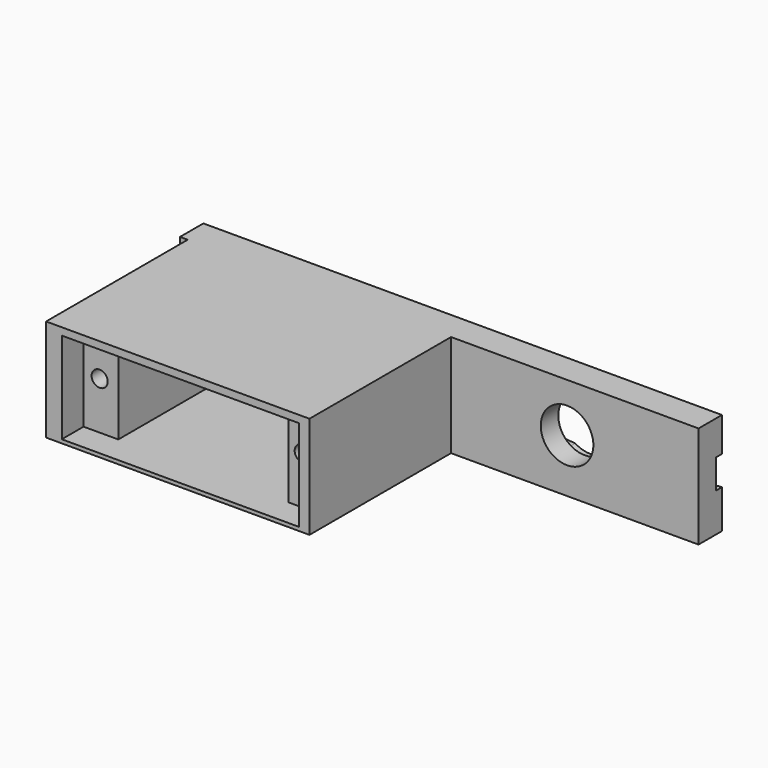
from build123d import *

# Parameters (mm, degrees)
CYLINDER_R                  = 1.1
CYLINDER_DEPTH              = 10
CYLINDER001_R               = 1.1
CYLINDER001_DEPTH           = 10
SKETCH002_W                 = 23.3
SKETCH002_H                 = 12.5
PAD002_DEPTH                = 19.5
SKETCH_W                    = 32.5
SKETCH_H                    = 12.5
PAD001_DEPTH                = 4.5
SKETCH001_W                 = 36.061928
SKETCH001_H                 = 25.639376
PAD_DEPTH                   = 14
CUT002_PLACEMENT_ANGLE      = 180
CYLINDER010_R               = 3.6
CYLINDER010_DEPTH           = 8
CYLINDER010_ROLL_ANGLE      = 89.941329
CYLINDER010_PITCH_ANGLE     = 3.606623
CYLINDER010_PLACEMENT_ANGLE = -0.059115
PAD013_DEPTH                = 3
CYLINDER006_R               = 5
CYLINDER006_DEPTH           = 4
BOX_W                       = 71
BOX_H                       = 4
BOX_DEPTH                   = 14


with BuildPart() as cylinder:
    # Cylinder → Cylinder (new body)
    with BuildSketch(Plane(origin=(30, 22, 6), x_dir=(1, 0, 0), z_dir=(0, -1, 0))):
        Circle(CYLINDER_R)
    extrude(amount=CYLINDER_DEPTH)


with BuildPart() as obj1:
    # Cylinder001 → Cylinder001 (new body)
    with BuildSketch(Plane(origin=(2.2, 22, 6), x_dir=(1, 0, 0), z_dir=(0, -1, 0))):
        Circle(CYLINDER001_R)
    extrude(amount=CYLINDER001_DEPTH)

    # Fusion: union Cylinder
    add(cylinder.part)


with BuildPart() as cortecuerpo:
    # Sketch002 → Pad002 (new body)
    with BuildSketch(Plane.XZ):
        with Locations((16.4, 6.25)):
            Rectangle(SKETCH002_W, SKETCH002_H)
    extrude(amount=PAD002_DEPTH)


with BuildPart() as cortecuerpo_1:
    # Body004 placement: moved
    add(cortecuerpo.part.moved(Location((0, 19, 0))))


with BuildPart() as cortetornillos:
    # Sketch → Pad001 (new body)
    with BuildSketch(Plane.XZ):
        with Locations((16.25, 6.25)):
            Rectangle(SKETCH_W, SKETCH_H)
    extrude(amount=PAD001_DEPTH)


with BuildPart() as cortetornillos_1:
    # Body003 placement: moved
    add(cortetornillos.part.moved(Location((0, 23, 0))))


with BuildPart() as soporteservocaja:
    # Sketch001 → Pad (new body)
    with BuildSketch(Plane.XY):
        with Locations((15.881367, 9.413649)):
            Rectangle(SKETCH001_W, SKETCH001_H)
    extrude(amount=PAD_DEPTH)


with BuildPart() as soporteservocaja_1:
    # Body placement: moved
    add(soporteservocaja.part.moved(Location((0, 0, -1))))

    # Cut: cut CorteTornillos
    add(cortetornillos_1.part, mode=Mode.SUBTRACT)

    # Cut001: cut CorteCuerpo
    add(cortecuerpo_1.part, mode=Mode.SUBTRACT)

    # Cut002: cut obj1
    add(obj1.part, mode=Mode.SUBTRACT)


with BuildPart() as soporteservocaja_2:
    # Cut002 placement: moved
    add(soporteservocaja_1.part.moved(Location((-28.8, 27, 12))).rotate(Axis((-28.8, 27, 12), (1, 0, 0)), CUT002_PLACEMENT_ANGLE))


with BuildPart() as cylinder010:
    # Cylinder010 → Cylinder010 (new body)
    with BuildSketch(Plane.XY):
        Circle(CYLINDER010_R)
    extrude(amount=CYLINDER010_DEPTH)


with BuildPart() as cylinder010_1:
    # Cylinder010 roll: moved
    add(cylinder010.part.rotate(Axis((0, 0, 0), (1, 0, 0)), CYLINDER010_ROLL_ANGLE))


with BuildPart() as cylinder010_2:
    # Cylinder010 pitch: moved
    add(cylinder010_1.part.rotate(Axis((0, 0, 0), (0, 1, 0)), CYLINDER010_PITCH_ANGLE))


with BuildPart() as cylinder010_3:
    # Cylinder010 placement: moved
    add(cylinder010_2.part.moved(Location((21, 34, 6.3))).rotate(Axis((21, 34, 6.3), (0, 0, 1)), CYLINDER010_PLACEMENT_ANGLE))


with BuildPart() as obj2:
    # Sketch013 → Pad013 (new body)
    with BuildSketch(Plane.XZ):
        with BuildLine():
            ThreePointArc((-18.00002, 2), (-20, 0), (-18.00002, -2))
            Line((-18.00002, -2), (-2.073587, -3.25))
            ThreePointArc((-2.073587, -3.25), (0, -3.854383), (2.073587, -3.25))
            Line((2.073587, -3.25), (18.00002, -2))
            ThreePointArc((18.00002, -2), (20, 0), (18.00002, 2))
            Line((2.073587, 3.25), (18.00002, 2))
            ThreePointArc((2.073587, 3.25), (0, 3.862152), (-2.073587, 3.25))
            Line((-18.00002, 2), (-2.073587, 3.25))
        make_face()
    extrude(amount=PAD013_DEPTH)


with BuildPart() as obj2_1:
    # Body015 placement: moved
    add(obj2.part.moved(Location((21, 35, 6.3))))

    # Fusion009: union Cylinder010
    add(cylinder010_3.part)


with BuildPart() as cylinder006:
    # Cylinder006 → Cylinder006 (new body)
    with BuildSketch(Plane(origin=(-20, 35, 6), x_dir=(-1, 0, 0), z_dir=(0, -1, 0))):
        Circle(CYLINDER006_R)
    extrude(amount=CYLINDER006_DEPTH)


with BuildPart() as fusion010:
    # Box → Box (new body)
    with BuildSketch(Plane(origin=(-32, 29, -1), x_dir=(1, 0, 0), z_dir=(0, 0, 1))):
        with Locations((35.5, 2)):
            Rectangle(BOX_W, BOX_H)
    extrude(amount=BOX_DEPTH)

    # Cut011: cut Cylinder006
    add(cylinder006.part, mode=Mode.SUBTRACT)

    # Cut012: cut obj2
    add(obj2_1.part, mode=Mode.SUBTRACT)

    # Fusion010: union SoporteServoCaja
    add(soporteservocaja_2.part)


solid = fusion010.part
